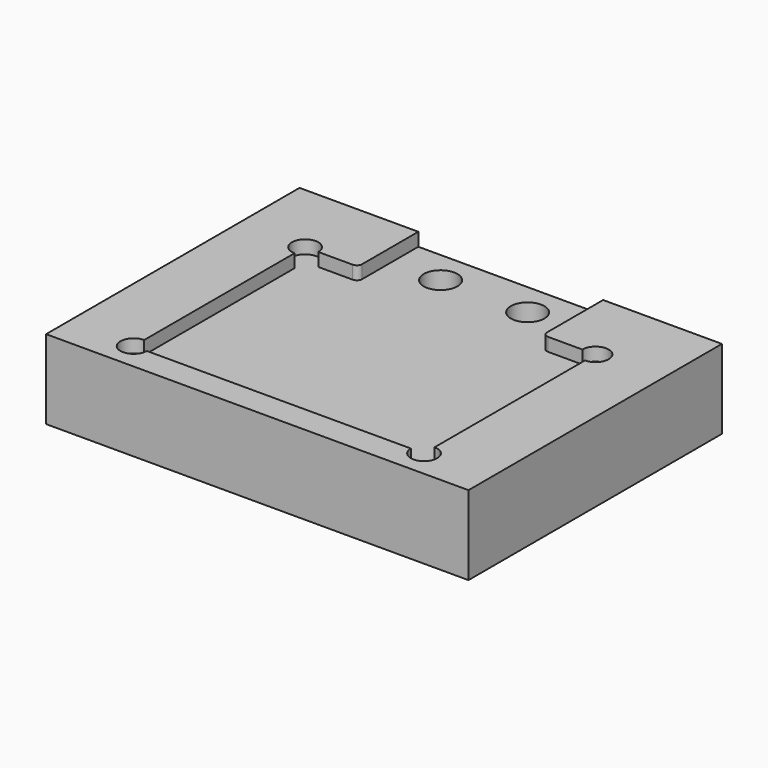
from build123d import *

# Parameters (mm, degrees)
F1_DEPTH = 19.05
F2_DEPTH = 3.175
F3_R     = 4.04114
F4_DEPTH = 25.4


with BuildPart() as f1:
    # F0 (on Top) → F1 (new body)
    with BuildSketch(Plane.XY):
        with BuildLine():
            Line((20.623783, -38.1), (50.8, -38.1))
            Line((50.8, -38.1), (50.8, 38.1))
            Line((50.8, 38.1), (22.225, 38.1))
            Line((22.225, 38.1), (22.225, 21.209))
            ThreePointArc((22.225, 21.209), (22.596974, 20.310974), (23.495, 19.939))
            Line((23.495, 19.939), (31.75, 19.939))
            ThreePointArc((31.75, 19.939), (37.170064, 22.184064), (34.925, 16.764))
            Line((34.925, 16.764), (34.925, -28.448))
            ThreePointArc((34.925, -28.448), (37.170064, -33.868064), (31.75, -31.623))
            Line((31.75, -31.623), (-31.75, -31.623))
            ThreePointArc((-31.75, -31.623), (-37.170064, -33.868064), (-34.925, -28.448))
            Line((-34.925, -28.448), (-34.925, 16.764))
            ThreePointArc((-34.925, 16.764), (-37.170064, 22.184064), (-31.75, 19.939))
            Line((-31.75, 19.939), (-23.495, 19.939))
            ThreePointArc((-23.495, 19.939), (-22.596974, 20.310974), (-22.225, 21.209))
            Line((-22.225, 21.209), (-22.225, 38.1))
            Line((-22.225, 38.1), (-50.8, 38.1))
            Line((-50.8, 38.1), (-50.8, -38.1))
            Line((-50.8, -38.1), (-20.623783, -38.1))
            Line((-20.623783, -38.1), (20.623783, -38.1))
        make_face()
        with BuildLine():
            Line((22.225, 21.209), (22.225, 38.1))
            Line((22.225, 38.1), (-22.225, 38.1))
            Line((-22.225, 38.1), (-22.225, 21.209))
            ThreePointArc((-22.225, 21.209), (-22.596974, 20.310974), (-23.495, 19.939))
            Line((-23.495, 19.939), (-31.75, 19.939))
            ThreePointArc((-31.75, 19.939), (-37.170064, 22.184064), (-34.925, 16.764))
            Line((-34.925, 16.764), (-34.925, -28.448))
            ThreePointArc((-34.925, -28.448), (-37.170064, -33.868064), (-31.75, -31.623))
            Line((-31.75, -31.623), (31.75, -31.623))
            ThreePointArc((31.75, -31.623), (37.170064, -33.868064), (34.925, -28.448))
            Line((34.925, -28.448), (34.925, 16.764))
            ThreePointArc((34.925, 16.764), (37.170064, 22.184064), (31.75, 19.939))
            Line((31.75, 19.939), (23.495, 19.939))
            ThreePointArc((23.495, 19.939), (22.596974, 20.310974), (22.225, 21.209))
        make_face()
    extrude(amount=-F1_DEPTH)

    # F0 (on Top) → F2 (cut)
    with BuildSketch(Plane.XY):
        with BuildLine():
            Line((22.225, 21.209), (22.225, 38.1))
            Line((22.225, 38.1), (-22.225, 38.1))
            Line((-22.225, 38.1), (-22.225, 21.209))
            ThreePointArc((-22.225, 21.209), (-22.596974, 20.310974), (-23.495, 19.939))
            Line((-23.495, 19.939), (-31.75, 19.939))
            ThreePointArc((-31.75, 19.939), (-37.170064, 22.184064), (-34.925, 16.764))
            Line((-34.925, 16.764), (-34.925, -28.448))
            ThreePointArc((-34.925, -28.448), (-37.170064, -33.868064), (-31.75, -31.623))
            Line((-31.75, -31.623), (31.75, -31.623))
            ThreePointArc((31.75, -31.623), (37.170064, -33.868064), (34.925, -28.448))
            Line((34.925, -28.448), (34.925, 16.764))
            ThreePointArc((34.925, 16.764), (37.170064, 22.184064), (31.75, 19.939))
            Line((31.75, 19.939), (23.495, 19.939))
            ThreePointArc((23.495, 19.939), (22.596974, 20.310974), (22.225, 21.209))
        make_face()
    extrude(amount=-F2_DEPTH, mode=Mode.SUBTRACT)

    # F3 (on face) → F4 (cut)
    with BuildSketch(Plane.XY.offset(-3.175)):
        with BuildLine():
            ThreePointArc((14.50594, 30.099), (10.4648, 34.14014), (6.42366, 30.099))
            ThreePointArc((6.42366, 30.099), (10.4648, 26.05786), (14.50594, 30.099))
        make_face()
        with Locations((-10.4648, 30.099)):
            Circle(F3_R)
    extrude(amount=-F4_DEPTH, mode=Mode.SUBTRACT)


solid = f1.part
